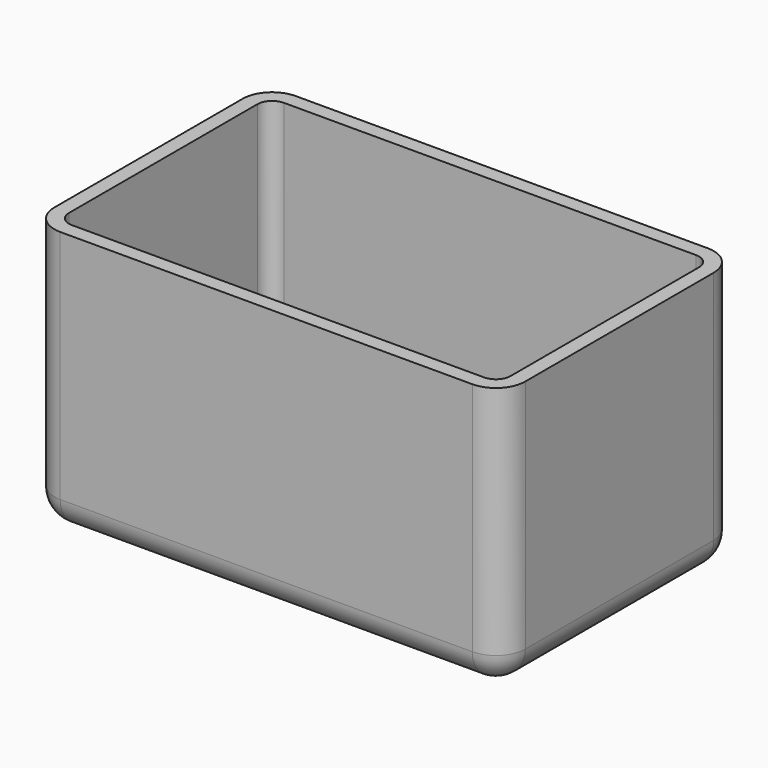
from build123d import *

# Parameters (mm, degrees)
F0_W     = 80
F0_H     = 50
F1_DEPTH = 45
F2_R     = 5
F3_T     = -2.5


with BuildPart() as f1:
    # F0 (on Top) → F1 (new body)
    with BuildSketch(Plane.XY):
        with Locations((6.780662, 7.407585)):
            Rectangle(F0_W, F0_H)
    extrude(amount=F1_DEPTH)

    # F2
    f2_edges = [f1.edges().sort_by_distance(p)[0] for p in [
        (-33.219338, -17.592415, 22.5),
        (46.780662, -17.592415, 22.5),
        (46.780662, 32.407585, 22.5),
        (-33.219338, 32.407585, 22.5),
        (46.780662, 7.407585, 0),
        (6.780662, 32.407585, 0),
        (-33.219338, 7.407585, 0),
        (6.780662, -17.592415, 0),
    ]]
    fillet(f2_edges, radius=F2_R)

    # F3
    f3_openings = [f1.faces().sort_by_distance(p)[0] for p in [
        (6.780662, 7.407585, 45),
    ]]
    offset(amount=F3_T, openings=f3_openings)


solid = f1.part
